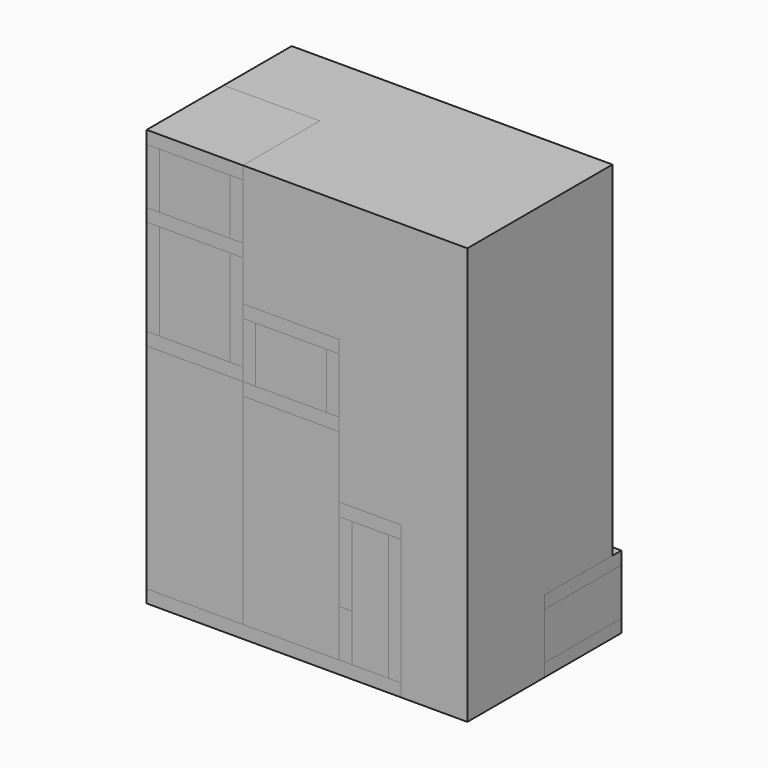
from build123d import *

# Parameters (mm, degrees)
F0_W      = 952.5
F0_H      = 538.48
F1_DEPTH  = 1238.25
F2_W      = 755.65
F2_H      = 285.75
F3_DEPTH  = 38.1
F4_W      = 952.5
F4_H      = 285.75
F5_DEPTH  = 38.1
F6_W      = 285.75
F6_H      = 635
F7_DEPTH  = 38.1
F8_W      = 285.75
F8_H      = 596.9
F9_DEPTH  = 38.1
F10_W     = 285.75
F10_H     = 635
F11_DEPTH = 38.1
F12_W     = 285.75
F12_H     = 596.9
F13_DEPTH = 38.1
F14_W     = 571.5
F14_H     = 139.7
F15_DEPTH = 38.1
F16_W     = 285.75
F16_H     = 374.65
F17_DEPTH = 38.1
F18_W     = 285.75
F18_H     = 139.7
F19_DEPTH = 38.1
F20_W     = 381
F20_H     = 285.75
F21_DEPTH = 38.1
F22_W     = 285.75
F22_H     = 234.95
F23_DEPTH = 38.1
F24_W     = 184.15
F24_H     = 285.75
F25_DEPTH = 38.1
F26_W     = 285.75
F26_H     = 571.5
F27_DEPTH = 38.1
F28_W     = 285.75
F28_H     = 571.5
F29_DEPTH = 38.1
F30_W     = 285.75
F30_H     = 165.1
F31_DEPTH = 38.1
F32_W     = 285.75
F32_H     = 165.1
F33_DEPTH = 38.1
F34_W     = 285.75
F34_H     = 285.75
F35_DEPTH = 38.1
F36_W     = 285.75
F36_H     = 571.5
F37_DEPTH = 38.1
F38_W     = 38.1
F38_H     = 571.5
F39_DEPTH = 285.75
F40_W     = 571.5
F40_H     = 285.75
F41_DEPTH = 38.1
F42_W     = 285.75
F42_H     = 571.5
F43_DEPTH = 38.1
F44_W     = 285.75
F44_H     = 165.1
F45_DEPTH = 38.1
F46_W     = 285.75
F46_H     = 165.1
F47_DEPTH = 38.1
F48_W     = 285.75
F48_H     = 285.75
F49_DEPTH = 38.1
F50_W     = 495.3
F50_H     = 596.9
F51_DEPTH = 6.35


with BuildPart() as f1:
    # F0 (on Top) → F1 (new body)
    with BuildSketch(Plane.XY):
        Rectangle(F0_W, F0_H)
    extrude(amount=F1_DEPTH)


with BuildPart() as f3:
    # F2 (on face) → F3 (new body)
    with BuildSketch(Plane(origin=(0, 0, 0), x_dir=(1, 0, 0), z_dir=(0, 0, -1))):
        with Locations((-98.425, 126.365)):
            Rectangle(F2_W, F2_H)
    extrude(amount=-F3_DEPTH)


with BuildPart() as f5:
    # F4 (on face) → F5 (new body)
    with BuildSketch(Plane(origin=(0, 0, 0), x_dir=(1, 0, 0), z_dir=(0, 0, -1))):
        with Locations((0, -159.385)):
            Rectangle(F4_W, F4_H)
    extrude(amount=-F5_DEPTH)


with BuildPart() as f7:
    # F6 (on face) → F7 (new body)
    with BuildSketch(Plane(origin=(0, 302.26, 0), x_dir=(-1, 0, 0), z_dir=(0, 1, 0))):
        with Locations((333.375, 355.6)):
            Rectangle(F6_W, F6_H)
    extrude(amount=-F7_DEPTH)


with BuildPart() as f9:
    # F8 (on face) → F9 (new body)
    with BuildSketch(Plane(origin=(0, 302.26, 0), x_dir=(-1, 0, 0), z_dir=(0, 1, 0))):
        with Locations((47.625, 336.55)):
            Rectangle(F8_W, F8_H)
    extrude(amount=-F9_DEPTH)


with BuildPart() as f11:
    # F10 (on face) → F11 (new body)
    with BuildSketch(Plane.XZ.offset(269.24)):
        with Locations((-333.375, 355.6)):
            Rectangle(F10_W, F10_H)
    extrude(amount=-F11_DEPTH)


with BuildPart() as f13:
    # F12 (on face) → F13 (new body)
    with BuildSketch(Plane.XZ.offset(269.24)):
        with Locations((-47.625, 336.55)):
            Rectangle(F12_W, F12_H)
    extrude(amount=-F13_DEPTH)


with BuildPart() as f15:
    # F14 (on face) → F15 (new body)
    with BuildSketch(Plane.YZ.offset(95.25)):
        with Locations((16.51, 107.95)):
            Rectangle(F14_W, F14_H)
    extrude(amount=F15_DEPTH)


with BuildPart() as f17:
    # F16 (on face) → F17 (new body)
    with BuildSketch(Plane.YZ.offset(279.4)):
        with Locations((-126.365, 225.425)):
            Rectangle(F16_W, F16_H)
    extrude(amount=-F17_DEPTH)


with BuildPart() as f19:
    # F18 (on face) → F19 (new body)
    with BuildSketch(Plane.YZ.offset(476.25)):
        with Locations((159.385, 107.95)):
            Rectangle(F18_W, F18_H)
    extrude(amount=-F19_DEPTH)


with BuildPart() as f21:
    # F20 (on face) → F21 (new body)
    with BuildSketch(Plane.XY.offset(177.8)):
        with Locations((285.75, 159.385)):
            Rectangle(F20_W, F20_H)
    extrude(amount=F21_DEPTH)


with BuildPart() as f23:
    # F22 (on face) → F23 (new body)
    with BuildSketch(Plane.YZ.offset(133.35)):
        with Locations((-126.365, 295.275)):
            Rectangle(F22_W, F22_H)
    extrude(amount=-F23_DEPTH)


with BuildPart() as f25:
    # F24 (on face) → F25 (new body)
    with BuildSketch(Plane.XY.offset(412.75)):
        with Locations((187.325, -126.365)):
            Rectangle(F24_W, F24_H)
    extrude(amount=F25_DEPTH)


with BuildPart() as f27:
    # F26 (on face) → F27 (new body)
    with BuildSketch(Plane.XY.offset(635)):
        with Locations((-47.625, 16.51)):
            Rectangle(F26_W, F26_H)
    extrude(amount=F27_DEPTH)


with BuildPart() as f29:
    # F28 (on face) → F29 (new body)
    with BuildSketch(Plane.XY.offset(996.95)):
        with Locations((-333.375, 16.51)):
            Rectangle(F28_W, F28_H)
    extrude(amount=F29_DEPTH)


with BuildPart() as f31:
    # F30 (on face) → F31 (new body)
    with BuildSketch(Plane.YZ.offset(95.25)):
        with Locations((-126.365, 755.65)):
            Rectangle(F30_W, F30_H)
    extrude(amount=-F31_DEPTH)


with BuildPart() as f33:
    # F32 (on face) → F33 (new body)
    with BuildSketch(Plane(origin=(-190.5, 0, 0), x_dir=(0, -1, 0), z_dir=(-1, 0, 0))):
        with Locations((126.365, 755.65)):
            Rectangle(F32_W, F32_H)
    extrude(amount=-F33_DEPTH)


with BuildPart() as f35:
    # F34 (on face) → F35 (new body)
    with BuildSketch(Plane.XY.offset(838.2)):
        with Locations((-47.625, -126.365)):
            Rectangle(F34_W, F34_H)
    extrude(amount=F35_DEPTH)


with BuildPart() as f37:
    # F36 (on face) → F37 (new body)
    with BuildSketch(Plane.XY.offset(673.1)):
        with Locations((-333.375, 16.51)):
            Rectangle(F36_W, F36_H)
    extrude(amount=F37_DEPTH)


with BuildPart() as f39:
    # F38 (on face) → F39 (new body)
    with BuildSketch(Plane.XY.offset(711.2)):
        with Locations((-209.55, 16.51)):
            Rectangle(F38_W, F38_H)
    extrude(amount=F39_DEPTH)


with BuildPart() as f41:
    # F40 (on face) → F41 (new body)
    with BuildSketch(Plane(origin=(-476.25, 0, 0), x_dir=(0, -1, 0), z_dir=(-1, 0, 0))):
        with Locations((-16.51, 854.075)):
            Rectangle(F40_W, F40_H)
    extrude(amount=-F41_DEPTH)


with BuildPart() as f43:
    # F42 (on face) → F43 (new body)
    with BuildSketch(Plane.XY.offset(673.1)):
        with Locations((-333.375, 16.51)):
            Rectangle(F42_W, F42_H)
    extrude(amount=F43_DEPTH)


with BuildPart() as f45:
    # F44 (on face) → F45 (new body)
    with BuildSketch(Plane.YZ.offset(-190.5)):
        with Locations((-126.365, 1117.6)):
            Rectangle(F44_W, F44_H)
    extrude(amount=-F45_DEPTH)


with BuildPart() as f47:
    # F46 (on face) → F47 (new body)
    with BuildSketch(Plane(origin=(-476.25, 0, 0), x_dir=(0, -1, 0), z_dir=(-1, 0, 0))):
        with Locations((126.365, 1117.6)):
            Rectangle(F46_W, F46_H)
    extrude(amount=-F47_DEPTH)


with BuildPart() as f49:
    # F48 (on face) → F49 (new body)
    with BuildSketch(Plane.XY.offset(1200.15)):
        with Locations((-333.375, -126.365)):
            Rectangle(F48_W, F48_H)
    extrude(amount=F49_DEPTH)


with BuildPart() as f51:
    # F50 (on face) → F51 (new body)
    with BuildSketch(Plane(origin=(95.25, 0, 0), x_dir=(0, -1, 0), z_dir=(-1, 0, 0))):
        with Locations((-16.51, 336.55)):
            Rectangle(F50_W, F50_H)
    extrude(amount=F51_DEPTH)


solid = Compound([f1.part, f3.part, f5.part, f7.part, f9.part, f11.part, f13.part, f15.part, f17.part, f19.part, f21.part, f23.part, f25.part, f27.part, f29.part, f31.part, f33.part, f35.part, f37.part, f39.part, f41.part, f43.part, f45.part, f47.part, f49.part, f51.part])
